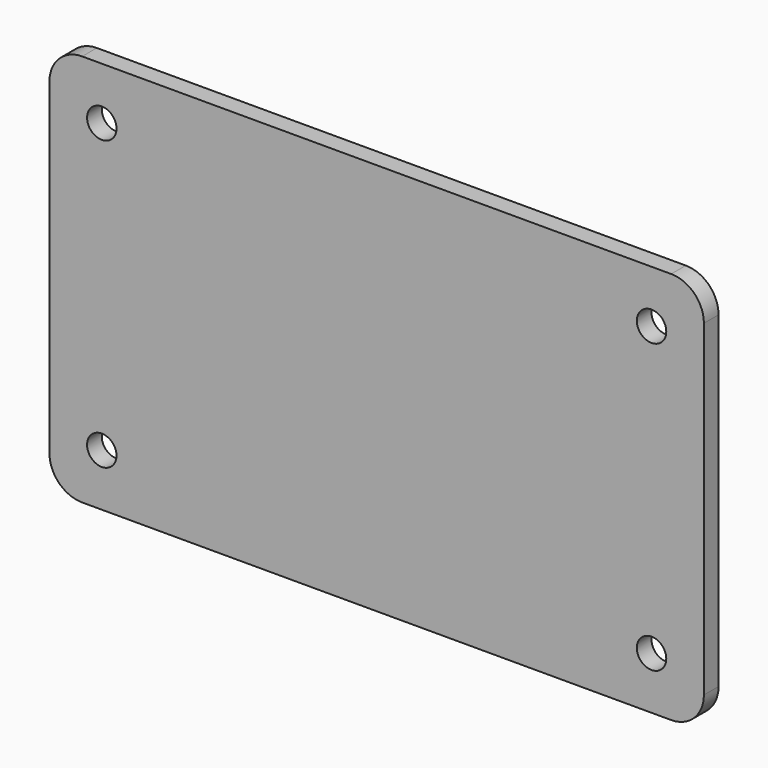
from build123d import *

# Parameters (mm, degrees)
F0_R     = 2.25
F1_DEPTH = 2.8


with BuildPart() as f1:
    # F0 (on Front) → F1 (new body)
    with BuildSketch(Plane.XZ):
        with BuildLine():
            Line((-45, -30), (45, -30))
            ThreePointArc((45, -30), (48.535534, -28.535534), (50, -25))
            Line((50, -25), (50, 25))
            ThreePointArc((50, 25), (48.535534, 28.535534), (45, 30))
            Line((45, 30), (-45, 30))
            ThreePointArc((-45, 30), (-48.535534, 28.535534), (-50, 25))
            Line((-50, 25), (-50, -25))
            ThreePointArc((-50, -25), (-48.535534, -28.535534), (-45, -30))
        make_face()
        with BuildLine():
            ThreePointArc((45, 27.000001), (46.414214, 26.414214), (47.000001, 25))
            Line((47.000001, 25), (47.000001, -25))
            ThreePointArc((47.000001, -25), (46.414214, -26.414214), (45, -27.000001))
            Line((45, -27.000001), (-45, -27.000001))
            ThreePointArc((-45, -27.000001), (-46.414214, -26.414214), (-47.000001, -25))
            Line((-47.000001, -25), (-47.000001, 25))
            ThreePointArc((-47.000001, 25), (-46.414214, 26.414214), (-45, 27.000001))
            Line((-45, 27.000001), (45, 27.000001))
        make_face(mode=Mode.SUBTRACT)
        with BuildLine():
            Line((47.000001, -25), (47.000001, 25))
            ThreePointArc((47.000001, 25), (46.414214, 26.414214), (45, 27.000001))
            Line((45, 27.000001), (-45, 27.000001))
            ThreePointArc((-45, 27.000001), (-46.414214, 26.414214), (-47.000001, 25))
            Line((-47.000001, 25), (-47.000001, -25))
            ThreePointArc((-47.000001, -25), (-46.414214, -26.414214), (-45, -27.000001))
            Line((-45, -27.000001), (45, -27.000001))
            ThreePointArc((45, -27.000001), (46.414214, -26.414214), (47.000001, -25))
        make_face()
        with Locations((-42, -22)):
            Circle(F0_R, mode=Mode.SUBTRACT)
        with Locations((42, -22)):
            Circle(F0_R, mode=Mode.SUBTRACT)
        with Locations((-42, 22)):
            Circle(F0_R, mode=Mode.SUBTRACT)
        with Locations((42, 22)):
            Circle(F0_R, mode=Mode.SUBTRACT)
    extrude(amount=F1_DEPTH)


solid = f1.part
